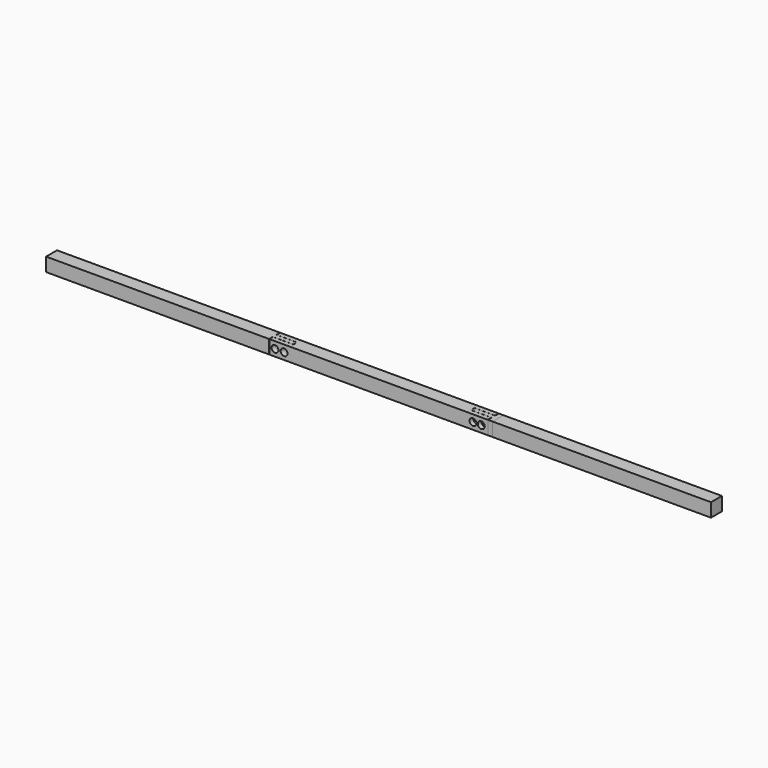
from build123d import *

# Parameters (mm, degrees)
F0_W      = 1219.2
F0_H      = 76.2
F0_R      = 19.05
F0_R_2    = 19.2415592486
F1_DEPTH  = 76.2
F2_W      = 114.3
F2_H      = 25.4
F3_DEPTH  = 76.2
F4_W      = 114.3
F4_H      = 25.4
F5_DEPTH  = 76.2
F6_R      = 19.05
F7_DEPTH  = 76.2
F9_DEPTH  = 38.1
F10_R     = 19.177
F11_DEPTH = 24.13
F13_DEPTH = 1219.2


with BuildPart() as f1:
    # F0 (on Front) → F1 (new body)
    with BuildSketch(Plane.XZ):
        Rectangle(F0_W, F0_H)
        with Locations((-577.85, 0)):
            Circle(F0_R, mode=Mode.SUBTRACT)
        with Locations((573.5753178596, 0)):
            Circle(F0_R_2, mode=Mode.SUBTRACT)
    extrude(amount=F1_DEPTH)

    # F2 (on face) → F3 (cut)
    with BuildSketch(Plane.XY.offset(38.1)):
        with Locations((-552.45, -38.1)):
            Rectangle(F2_W, F2_H)
    extrude(amount=-F3_DEPTH, mode=Mode.SUBTRACT)

    # F4 (on face) → F5 (cut)
    with BuildSketch(Plane.XY.offset(38.1)):
        with Locations((552.45, -38.1)):
            Rectangle(F4_W, F4_H)
    extrude(amount=-F5_DEPTH, mode=Mode.SUBTRACT)

    # F6 (on face) → F7 (cut)
    with BuildSketch(Plane.XZ.offset(76.2)):
        with Locations((-527.05, 0)):
            Circle(F6_R)
        with Locations((527.05, 0)):
            Circle(F6_R)
    extrude(amount=-F7_DEPTH, mode=Mode.SUBTRACT)


with BuildPart() as f9:
    # F8 (on Top) → F9 (new body, symmetric)
    with BuildSketch(Plane.XY):
        Polygon((-495.935, -50.165), (-495.935, -26.035), (-610.87, -26.035), (-610.87, 0), (-636.27, 0), (-636.27, -76.2), (-610.87, -76.2), (-610.87, -50.165), align=None)
    extrude(amount=F9_DEPTH, both=True)

    # F10 (on face) → F11 (cut, through all)
    with BuildSketch(Plane(origin=(0, -26.035, 0), x_dir=(-1, 0, 0), z_dir=(0, 1, 0))):
        with Locations((578.485, 0)):
            Circle(F10_R)
        with Locations((527.685, 0)):
            Circle(F10_R)
    extrude(amount=-F11_DEPTH, mode=Mode.SUBTRACT)


with BuildPart() as f12_1:
    # F12: instance of F9
    add(f9.part.mirror(Plane.YZ))


with BuildPart() as f13:
    # F13 (new): a face of the model
    f13_faces = [f12_1.part.faces().sort_by_distance(p)[0] for p in [
        (636.27, -38.1, 0),
    ]]
    extrude(f13_faces, amount=F13_DEPTH)


with BuildPart() as f9_1:
    add(f9.part)

    # F14: F13 across plane
    add(f13.part.mirror(Plane.YZ))


solid = Compound([f1.part, f12_1.part, f13.part, f9_1.part])
